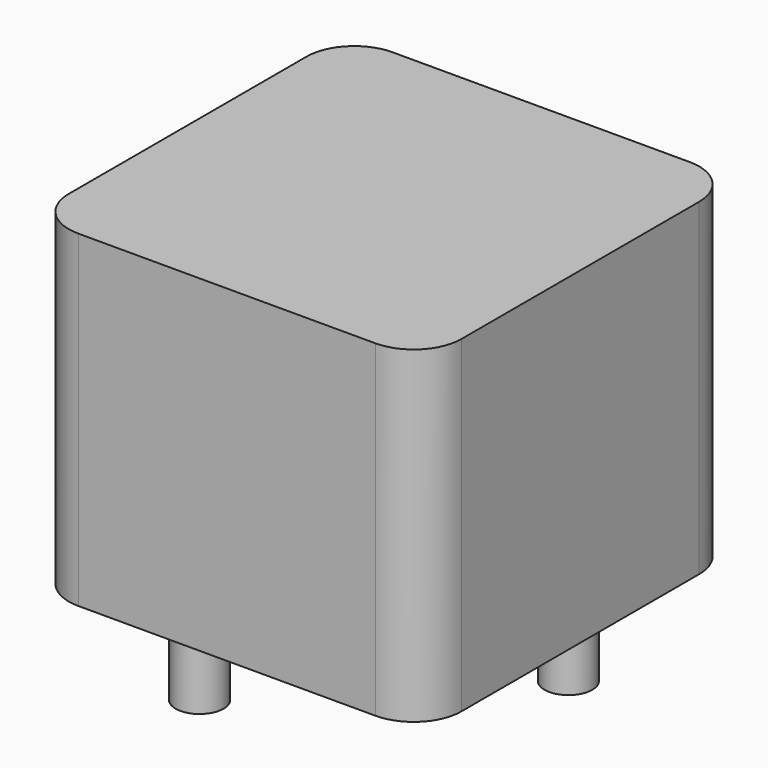
from build123d import *

# Parameters (mm, degrees)
SKETCH_W     = 11.5
SKETCH_H     = 11.5
PAD_DEPTH    = 9.6
FILLET_R     = 1.4
SKETCH001_R  = 0.7
PAD001_DEPTH = 3.5


with BuildPart() as fillet_body:
    # Sketch → Pad (new body)
    with BuildSketch(Plane.XY.offset(0.1)):
        with Locations((3, 3)):
            Rectangle(SKETCH_W, SKETCH_H)
    extrude(amount=PAD_DEPTH)

    # Fillet
    fillet_edges = [fillet_body.edges().sort_by_distance(p)[0] for p in [
        (8.75, -2.75, 4.9),
        (8.75, 8.75, 4.9),
        (-2.75, -2.75, 4.9),
        (-2.75, 8.75, 4.9),
    ]]
    fillet(fillet_edges, radius=FILLET_R)


with BuildPart() as obj1:
    # Sketch001 → Pad001 (new body)
    with BuildSketch(Plane.XY.offset(0.5)):
        Circle(SKETCH001_R)
        with Locations((6, 6)):
            Circle(SKETCH001_R)
    extrude(amount=-PAD001_DEPTH)

    # obj1: union Fillet body
    add(fillet_body.part)


solid = obj1.part
